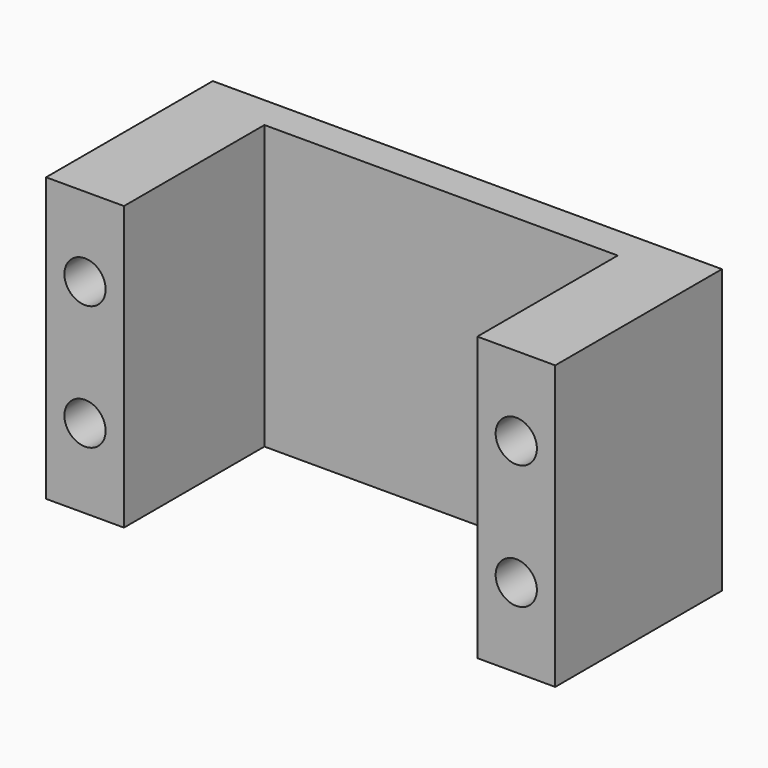
from build123d import *

# Parameters (mm, degrees)
F0_W     = 8.7376
F0_H     = 31.75
F0_R     = 2.3114
F1_DEPTH = 23.368
F0_W_2   = 39.624
F2_DEPTH = 3.683


with BuildPart() as f1:
    # F0 (on Front) → F1 (new body)
    with BuildSketch(Plane.XZ):
        with Locations((-30.364424, 62.419902)):
            Rectangle(F0_W, F0_H)
        with Locations((-30.364424, 55.434902)):
            Circle(F0_R, mode=Mode.SUBTRACT)
        with Locations((-30.364424, 69.404902)):
            Circle(F0_R, mode=Mode.SUBTRACT)
        with Locations((17.997176, 62.419902)):
            Rectangle(F0_W, F0_H)
        with Locations((17.997176, 55.434902)):
            Circle(F0_R, mode=Mode.SUBTRACT)
        with Locations((17.997176, 69.404902)):
            Circle(F0_R, mode=Mode.SUBTRACT)
    extrude(amount=F1_DEPTH)

    # F0 (on Front) → F2 (join)
    with BuildSketch(Plane.XZ):
        with Locations((-6.183624, 62.419902)):
            Rectangle(F0_W_2, F0_H)
    extrude(amount=F2_DEPTH)


solid = f1.part
